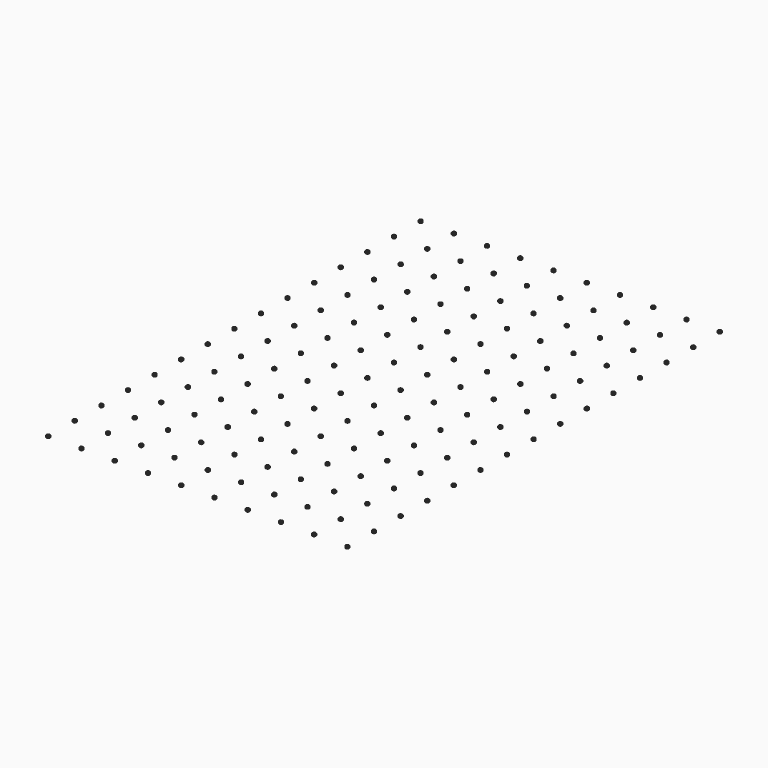
from build123d import *

# Parameters (mm, degrees)
F0_R     = 0.5
F1_DEPTH = 0.5


with BuildPart() as f1:
    # F0 (on Top) → F1 (new body)
    with BuildSketch(Plane.XY):
        with Locations((-61.452094, -11.331215)):
            Circle(F0_R)
        with Locations((-31.452094, -11.331215)):
            Circle(F0_R)
        with Locations((-31.452094, -21.331215)):
            Circle(F0_R)
        with Locations((-31.452094, -31.331215)):
            Circle(F0_R)
        with Locations((-41.452094, -11.331215)):
            Circle(F0_R)
        with Locations((-41.452094, -21.331215)):
            Circle(F0_R)
        with Locations((-41.452094, -31.331215)):
            Circle(F0_R)
        with Locations((-51.452094, -11.331215)):
            Circle(F0_R)
        with Locations((-51.452094, -21.331215)):
            Circle(F0_R)
        with Locations((-51.452094, -31.331215)):
            Circle(F0_R)
        with Locations((-61.452094, -21.331215)):
            Circle(F0_R)
        with Locations((-61.452094, -31.331215)):
            Circle(F0_R)
        with Locations((-41.452094, 98.668785)):
            Circle(F0_R)
        with Locations((28.547906, 18.668785)):
            Circle(F0_R)
        with Locations((-11.452094, -21.331215)):
            Circle(F0_R)
        with Locations((-51.452094, 38.668785)):
            Circle(F0_R)
        with Locations((-41.452094, 78.668785)):
            Circle(F0_R)
        with Locations((-21.452094, -31.331215)):
            Circle(F0_R)
        with Locations((8.547906, 18.668785)):
            Circle(F0_R)
        with Locations((18.547906, 28.668785)):
            Circle(F0_R)
        with Locations((-11.452094, -31.331215)):
            Circle(F0_R)
        with Locations((8.547906, -11.331215)):
            Circle(F0_R)
        with Locations((-1.452094, -21.331215)):
            Circle(F0_R)
        with Locations((-1.452094, 38.668785)):
            Circle(F0_R)
        with Locations((-1.452094, -11.331215)):
            Circle(F0_R)
        with Locations((28.547906, 8.668785)):
            Circle(F0_R)
        with Locations((-21.452094, -11.331215)):
            Circle(F0_R)
        with Locations((-11.452094, 38.668785)):
            Circle(F0_R)
        with Locations((18.547906, 8.668785)):
            Circle(F0_R)
        with Locations((28.547906, 38.668785)):
            Circle(F0_R)
        with Locations((-51.452094, 58.668785)):
            Circle(F0_R)
        with Locations((-11.452094, -1.331215)):
            Circle(F0_R)
        with Locations((-1.452094, 48.668785)):
            Circle(F0_R)
        with Locations((-1.452094, 8.668785)):
            Circle(F0_R)
        with Locations((8.547906, -1.331215)):
            Circle(F0_R)
        with Locations((-31.452094, -1.331215)):
            Circle(F0_R)
        with Locations((28.547906, 78.668785)):
            Circle(F0_R)
        with Locations((-21.452094, 28.668785)):
            Circle(F0_R)
        with Locations((-1.452094, 18.668785)):
            Circle(F0_R)
        with Locations((-21.452094, 88.668785)):
            Circle(F0_R)
        with Locations((-51.452094, 78.668785)):
            Circle(F0_R)
        with Locations((-21.452094, 8.668785)):
            Circle(F0_R)
        with Locations((-11.452094, 108.668785)):
            Circle(F0_R)
        with Locations((-21.452094, -1.331215)):
            Circle(F0_R)
        with Locations((-11.452094, 18.668785)):
            Circle(F0_R)
        with Locations((8.547906, 58.668785)):
            Circle(F0_R)
        with Locations((-61.452094, 38.668785)):
            Circle(F0_R)
        with Locations((-51.452094, 98.668785)):
            Circle(F0_R)
        with Locations((-31.452094, 18.668785)):
            Circle(F0_R)
        with Locations((8.547906, -31.331215)):
            Circle(F0_R)
        with Locations((18.547906, -1.331215)):
            Circle(F0_R)
        with Locations((-51.452094, 28.668785)):
            Circle(F0_R)
        with Locations((-41.452094, 68.668785)):
            Circle(F0_R)
        with Locations((-31.452094, 108.668785)):
            Circle(F0_R)
        with Locations((-1.452094, -1.331215)):
            Circle(F0_R)
        with Locations((8.547906, 8.668785)):
            Circle(F0_R)
        with Locations((18.547906, 18.668785)):
            Circle(F0_R)
        with Locations((28.547906, 28.668785)):
            Circle(F0_R)
        with Locations((-51.452094, 48.668785)):
            Circle(F0_R)
        with Locations((-41.452094, 88.668785)):
            Circle(F0_R)
        with Locations((-21.452094, -21.331215)):
            Circle(F0_R)
        with Locations((8.547906, 48.668785)):
            Circle(F0_R)
        with Locations((-11.452094, -11.331215)):
            Circle(F0_R)
        with Locations((18.547906, 58.668785)):
            Circle(F0_R)
        with Locations((28.547906, 68.668785)):
            Circle(F0_R)
        with Locations((28.547906, -1.331215)):
            Circle(F0_R)
        with Locations((-51.452094, 88.668785)):
            Circle(F0_R)
        with Locations((-31.452094, 8.668785)):
            Circle(F0_R)
        with Locations((-21.452094, 108.668785)):
            Circle(F0_R)
        with Locations((-21.452094, 18.668785)):
            Circle(F0_R)
        with Locations((-11.452094, 28.668785)):
            Circle(F0_R)
        with Locations((-61.452094, 48.668785)):
            Circle(F0_R)
        with Locations((-1.452094, -31.331215)):
            Circle(F0_R)
        with Locations((8.547906, -21.331215)):
            Circle(F0_R)
        with Locations((18.547906, -11.331215)):
            Circle(F0_R)
        with Locations((-51.452094, 18.668785)):
            Circle(F0_R)
        with Locations((-41.452094, 58.668785)):
            Circle(F0_R)
        with Locations((-1.452094, 28.668785)):
            Circle(F0_R)
        with Locations((8.547906, 38.668785)):
            Circle(F0_R)
        with Locations((-31.452094, 98.668785)):
            Circle(F0_R)
        with Locations((18.547906, 48.668785)):
            Circle(F0_R)
        with Locations((28.547906, 58.668785)):
            Circle(F0_R)
        with Locations((-11.452094, 8.668785)):
            Circle(F0_R)
        with Locations((8.547906, 28.668785)):
            Circle(F0_R)
        with Locations((-61.452094, 68.668785)):
            Circle(F0_R)
        with Locations((-11.452094, 48.668785)):
            Circle(F0_R)
        with Locations((-21.452094, 38.668785)):
            Circle(F0_R)
        with Locations((-31.452094, 28.668785)):
            Circle(F0_R)
        with Locations((-51.452094, 108.668785)):
            Circle(F0_R)
        with Locations((28.547906, 88.668785)):
            Circle(F0_R)
        with Locations((18.547906, 78.668785)):
            Circle(F0_R)
        with Locations((8.547906, 68.668785)):
            Circle(F0_R)
        with Locations((-1.452094, 58.668785)):
            Circle(F0_R)
        with Locations((-61.452094, 78.668785)):
            Circle(F0_R)
        with Locations((-11.452094, 58.668785)):
            Circle(F0_R)
        with Locations((-21.452094, 48.668785)):
            Circle(F0_R)
        with Locations((-31.452094, 38.668785)):
            Circle(F0_R)
        with Locations((-41.452094, -1.331215)):
            Circle(F0_R)
        with Locations((28.547906, 98.668785)):
            Circle(F0_R)
        with Locations((18.547906, 88.668785)):
            Circle(F0_R)
        with Locations((8.547906, 78.668785)):
            Circle(F0_R)
        with Locations((-1.452094, 68.668785)):
            Circle(F0_R)
        with Locations((-61.452094, 88.668785)):
            Circle(F0_R)
        with Locations((-11.452094, 68.668785)):
            Circle(F0_R)
        with Locations((-21.452094, 58.668785)):
            Circle(F0_R)
        with Locations((-31.452094, 48.668785)):
            Circle(F0_R)
        with Locations((-41.452094, 8.668785)):
            Circle(F0_R)
        with Locations((28.547906, 108.668785)):
            Circle(F0_R)
        with Locations((18.547906, 98.668785)):
            Circle(F0_R)
        with Locations((8.547906, 88.668785)):
            Circle(F0_R)
        with Locations((-1.452094, 78.668785)):
            Circle(F0_R)
        with Locations((8.547906, 98.668785)):
            Circle(F0_R)
        with Locations((-1.452094, 88.668785)):
            Circle(F0_R)
        with Locations((-11.452094, 78.668785)):
            Circle(F0_R)
        with Locations((-21.452094, 68.668785)):
            Circle(F0_R)
        with Locations((18.547906, 108.668785)):
            Circle(F0_R)
        with Locations((-31.452094, 58.668785)):
            Circle(F0_R)
        with Locations((-41.452094, 18.668785)):
            Circle(F0_R)
        with Locations((-61.452094, 98.668785)):
            Circle(F0_R)
        with Locations((-61.452094, 28.668785)):
            Circle(F0_R)
        with Locations((-61.452094, 8.668785)):
            Circle(F0_R)
        with Locations((-61.452094, 18.668785)):
            Circle(F0_R)
        with Locations((28.547906, -31.331215)):
            Circle(F0_R)
        with Locations((-61.452094, -1.331215)):
            Circle(F0_R)
        with Locations((-31.452094, 68.668785)):
            Circle(F0_R)
        with Locations((-41.452094, 28.668785)):
            Circle(F0_R)
        with Locations((-61.452094, 108.668785)):
            Circle(F0_R)
        with Locations((8.547906, 108.668785)):
            Circle(F0_R)
        with Locations((-1.452094, 98.668785)):
            Circle(F0_R)
        with Locations((-11.452094, 88.668785)):
            Circle(F0_R)
        with Locations((-21.452094, 78.668785)):
            Circle(F0_R)
        with Locations((-31.452094, 78.668785)):
            Circle(F0_R)
        with Locations((-41.452094, 38.668785)):
            Circle(F0_R)
        with Locations((-51.452094, -1.331215)):
            Circle(F0_R)
        with Locations((18.547906, -31.331215)):
            Circle(F0_R)
        with Locations((-1.452094, 108.668785)):
            Circle(F0_R)
        with Locations((18.547906, 68.668785)):
            Circle(F0_R)
        with Locations((28.547906, -21.331215)):
            Circle(F0_R)
        with Locations((-61.452094, 58.668785)):
            Circle(F0_R)
        with Locations((-41.452094, 108.668785)):
            Circle(F0_R)
        with Locations((-11.452094, 98.668785)):
            Circle(F0_R)
        with Locations((18.547906, -21.331215)):
            Circle(F0_R)
        with Locations((-51.452094, 68.668785)):
            Circle(F0_R)
        with Locations((-31.452094, 88.668785)):
            Circle(F0_R)
        with Locations((-41.452094, 48.668785)):
            Circle(F0_R)
        with Locations((-51.452094, 8.668785)):
            Circle(F0_R)
        with Locations((-21.452094, 98.668785)):
            Circle(F0_R)
        with Locations((28.547906, 48.668785)):
            Circle(F0_R)
        with Locations((18.547906, 38.668785)):
            Circle(F0_R)
        with Locations((28.547906, -11.331215)):
            Circle(F0_R)
    extrude(amount=F1_DEPTH)


solid = f1.part
